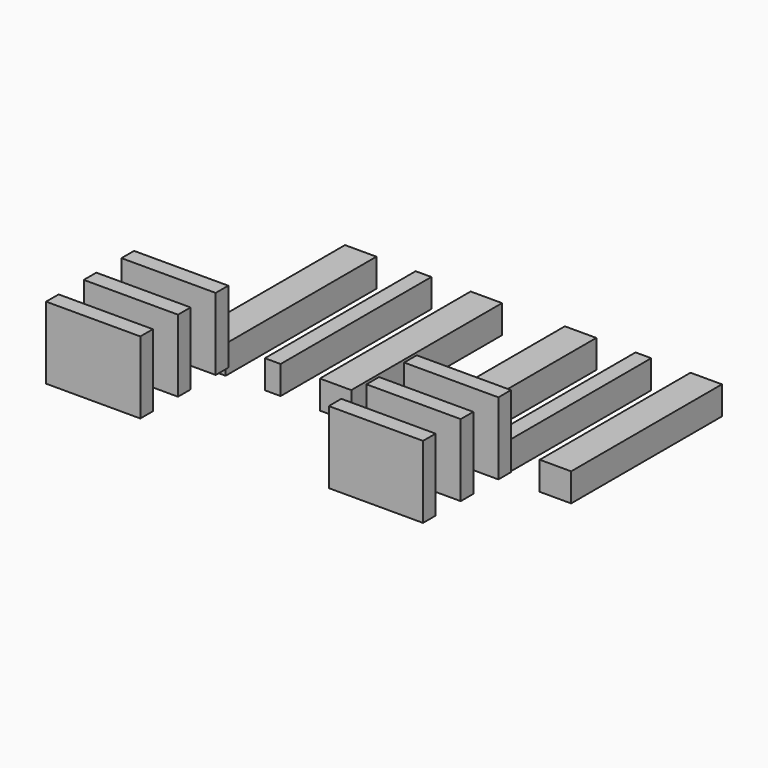
from build123d import *

# Parameters (mm, degrees)
BOX054_W     = 6
BOX054_H     = 1
BOX054_DEPTH = 4.6
BOX044_W     = 6
BOX044_H     = 1
BOX044_DEPTH = 4.6
BOX052_W     = 6
BOX052_H     = 1
BOX052_DEPTH = 4.6
BOX055_W     = 6
BOX055_H     = 1
BOX055_DEPTH = 4.6
BOX057_W     = 6
BOX057_H     = 1
BOX057_DEPTH = 4.6
BOX045_W     = 6
BOX045_H     = 1
BOX045_DEPTH = 4.6
BOX107_W     = 24
BOX107_H     = 13
BOX107_DEPTH = 10
BOX091_W     = 1
BOX091_H     = 12
BOX091_DEPTH = 2.8
BOX093_W     = 2
BOX093_H     = 12
BOX093_DEPTH = 2.8
BOX089_W     = 2
BOX089_H     = 12
BOX089_DEPTH = 2.8
BOX087_W     = 1
BOX087_H     = 12
BOX087_DEPTH = 2.8
BOX043_W     = 2
BOX043_H     = 12
BOX043_DEPTH = 2.8
BOX090_W     = 2
BOX090_H     = 12
BOX090_DEPTH = 2.8


with BuildPart() as cube049:
    # Box054 → Box054 (new body)
    with BuildSketch(Plane(origin=(-12, 4, 5.7), x_dir=(1, 0, 0), z_dir=(0, 0, 1))):
        with Locations((3, 0.5)):
            Rectangle(BOX054_W, BOX054_H)
    extrude(amount=BOX054_DEPTH)


with BuildPart() as cube043:
    # Box044 → Box044 (new body)
    with BuildSketch(Plane(origin=(-12, -2, 5.7), x_dir=(1, 0, 0), z_dir=(0, 0, 1))):
        with Locations((3, 0.5)):
            Rectangle(BOX044_W, BOX044_H)
    extrude(amount=BOX044_DEPTH)


with BuildPart() as fusion010006012010005012005017:
    # Box052 → Box052 (new body)
    with BuildSketch(Plane(origin=(-12, 1, 5.7), x_dir=(1, 0, 0), z_dir=(0, 0, 1))):
        with Locations((3, 0.5)):
            Rectangle(BOX052_W, BOX052_H)
    extrude(amount=BOX052_DEPTH)

    # Fusion010006012010005012005017: union Cube049, Cube043
    add(cube049.part)
    add(cube043.part)


with BuildPart() as fusion010006012010005012005017_1:
    # Fusion010006012010005012005017 placement: moved
    add(fusion010006012010005012005017.part.moved(Location((0, -1.79, 1))))


with BuildPart() as cube050:
    # Box055 → Box055 (new body)
    with BuildSketch(Plane(origin=(6, 1, 5.7), x_dir=(1, 0, 0), z_dir=(0, 0, 1))):
        with Locations((3, 0.5)):
            Rectangle(BOX055_W, BOX055_H)
    extrude(amount=BOX055_DEPTH)


with BuildPart() as cube052:
    # Box057 → Box057 (new body)
    with BuildSketch(Plane(origin=(6, 4, 5.7), x_dir=(1, 0, 0), z_dir=(0, 0, 1))):
        with Locations((3, 0.5)):
            Rectangle(BOX057_W, BOX057_H)
    extrude(amount=BOX057_DEPTH)


with BuildPart() as fusion010006012010005012005016:
    # Box045 → Box045 (new body)
    with BuildSketch(Plane(origin=(6, -2, 5.7), x_dir=(1, 0, 0), z_dir=(0, 0, 1))):
        with Locations((3, 0.5)):
            Rectangle(BOX045_W, BOX045_H)
    extrude(amount=BOX045_DEPTH)

    # Fusion010006012010005012005016: union Cube050, Cube052
    add(cube050.part)
    add(cube052.part)


with BuildPart() as fusion010006012010005012005016_1:
    # Fusion010006012010005012005016 placement: moved
    add(fusion010006012010005012005016.part.moved(Location((0, -1.79, 1))))


with BuildPart() as cube095:
    # Box107 → Box107 (new body)
    with BuildSketch(Plane(origin=(-12, 12, 4.8), x_dir=(1, 0, 0), z_dir=(0, 0, 1))):
        with Locations((12, 6.5)):
            Rectangle(BOX107_W, BOX107_H)
    extrude(amount=BOX107_DEPTH)


with BuildPart() as cube047:
    # Box091 → Box091 (new body)
    with BuildSketch(Plane(origin=(6.5, 11, 2), x_dir=(1, 0, 0), z_dir=(0, 0, 1))):
        with Locations((0.5, 6)):
            Rectangle(BOX091_W, BOX091_H)
    extrude(amount=BOX091_DEPTH)


with BuildPart() as box093:
    # Box093 → Box093 (new body)
    with BuildSketch(Plane(origin=(2, 11, 2), x_dir=(1, 0, 0), z_dir=(0, 0, 1))):
        with Locations((1, 6)):
            Rectangle(BOX093_W, BOX093_H)
    extrude(amount=BOX093_DEPTH)


with BuildPart() as cube045:
    # Box089 → Box089 (new body)
    with BuildSketch(Plane(origin=(-4, 11, 2), x_dir=(1, 0, 0), z_dir=(0, 0, 1))):
        with Locations((1, 6)):
            Rectangle(BOX089_W, BOX089_H)
    extrude(amount=BOX089_DEPTH)


with BuildPart() as box087:
    # Box087 → Box087 (new body)
    with BuildSketch(Plane(origin=(-7.5, 11, 2), x_dir=(1, 0, 0), z_dir=(0, 0, 1))):
        with Locations((0.5, 6)):
            Rectangle(BOX087_W, BOX087_H)
    extrude(amount=BOX087_DEPTH)


with BuildPart() as cube042:
    # Box043 → Box043 (new body)
    with BuildSketch(Plane(origin=(-12, 11, 2), x_dir=(1, 0, 0), z_dir=(0, 0, 1))):
        with Locations((1, 6)):
            Rectangle(BOX043_W, BOX043_H)
    extrude(amount=BOX043_DEPTH)


with BuildPart() as arm_custom_support:
    # Box090 → Box090 (new body)
    with BuildSketch(Plane(origin=(10, 11, 2), x_dir=(1, 0, 0), z_dir=(0, 0, 1))):
        with Locations((1, 6)):
            Rectangle(BOX090_W, BOX090_H)
    extrude(amount=BOX090_DEPTH)

    # Fusion010006012010005012005015: union cube047, Box093, cube045, Box087, cube042
    add(cube047.part)
    add(box093.part)
    add(cube045.part)
    add(box087.part)
    add(cube042.part)


with BuildPart() as arm_custom_support_1:
    # Fusion010006012010005012005015 placement: moved
    add(arm_custom_support.part.moved(Location((0, 1.5, 1))))

    # Cut022020016032007036027: cut Cube095
    add(cube095.part, mode=Mode.SUBTRACT)


with BuildPart() as arm_custom_support_2:
    # Cut022020016032007036027 placement: moved
    add(arm_custom_support_1.part.moved(Location((0, -4.5, 0))))

    # Fusion010006012010005012005027012004: union Fusion010006012010005012005017, Fusion010006012010005012005016
    add(fusion010006012010005012005017_1.part)
    add(fusion010006012010005012005016_1.part)


solid = arm_custom_support_2.part
